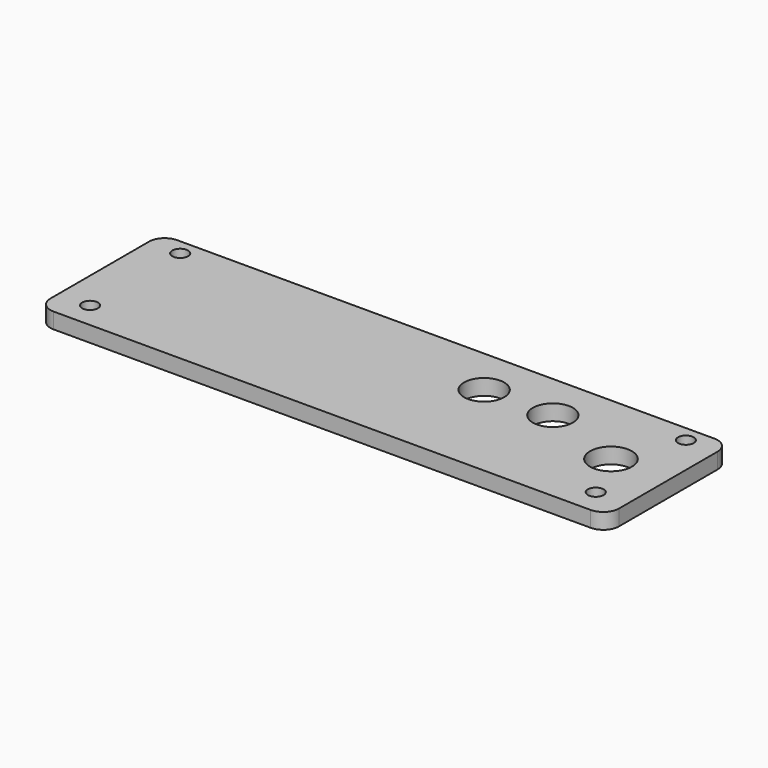
from build123d import *

# Parameters (mm, degrees)
F0_R     = 1.5
F0_R_2   = 3.825
F1_DEPTH = 3


with BuildPart() as f1:
    # F0 (on Top) → F1 (new body)
    with BuildSketch(Plane.XY):
        with BuildLine():
            Line((54.25, -11.75), (54.25, 0))
            Line((54.25, 0), (47.317251, 0))
            ThreePointArc((47.317251, 0), (43.317251, -4), (39.317251, 0))
            Line((39.317251, 0), (-54.25, 0))
            Line((-54.25, 0), (-54.25, -11.75))
            ThreePointArc((-54.25, -11.75), (-53.37132, -13.87132), (-51.25, -14.75))
            Line((-51.25, -14.75), (51.25, -14.75))
            ThreePointArc((51.25, -14.75), (53.37132, -13.87132), (54.25, -11.75))
        make_face()
        with Locations((-48.25, -9.8)):
            Circle(F0_R, mode=Mode.SUBTRACT)
        with Locations((48.25, -9.8)):
            Circle(F0_R, mode=Mode.SUBTRACT)
        with BuildLine():
            ThreePointArc((54.25, 11.75), (53.37132, 13.87132), (51.25, 14.75))
            Line((51.25, 14.75), (-51.25, 14.75))
            ThreePointArc((-51.25, 14.75), (-53.37132, 13.87132), (-54.25, 11.75))
            Line((-54.25, 11.75), (-54.25, 0))
            Line((-54.25, 0), (39.317251, 0))
            ThreePointArc((39.317251, 0), (43.317251, 4), (47.317251, 0))
            Line((47.317251, 0), (54.25, 0))
            Line((54.25, 0), (54.25, 11.75))
        make_face()
        with Locations((-48.25, 11.7)):
            Circle(F0_R, mode=Mode.SUBTRACT)
        with Locations((14.629073, 5.604644)):
            Circle(F0_R_2, mode=Mode.SUBTRACT)
        with Locations((27.738241, 5.604644)):
            Circle(F0_R_2, mode=Mode.SUBTRACT)
        with Locations((48.25, 11.7)):
            Circle(F0_R, mode=Mode.SUBTRACT)
    extrude(amount=F1_DEPTH)


solid = f1.part
